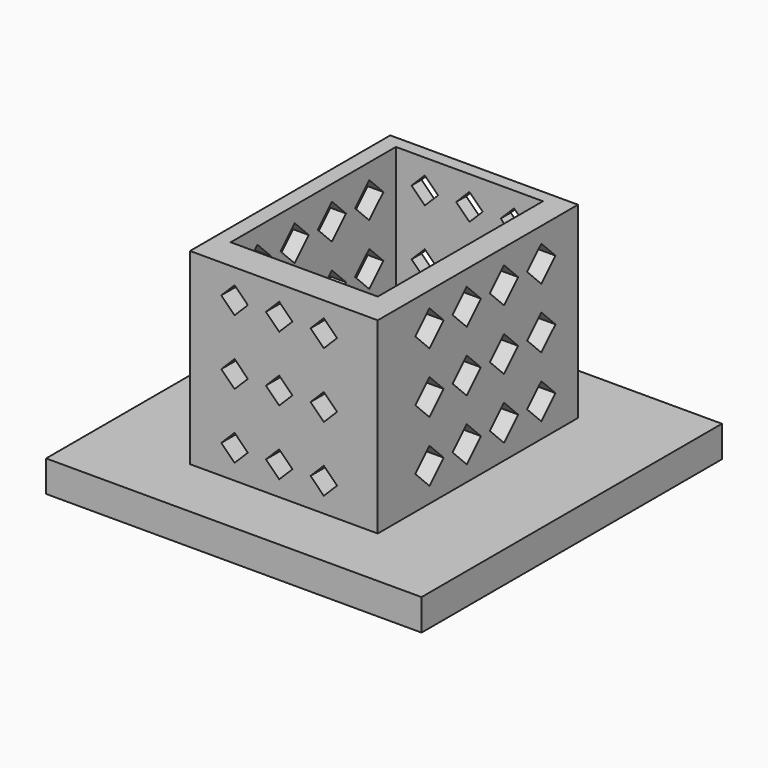
from build123d import *

# Parameters (mm, degrees)
F0_W     = 60
F0_H     = 80
F0_W_2   = 47
F0_H_2   = 66
F1_DEPTH = 60
F3_DEPTH = 60.001
F5_DEPTH = 80.001
F7_DEPTH = 10


with BuildPart() as f1:
    # F0 (on Top) → F1 (new body)
    with BuildSketch(Plane.XY):
        Rectangle(F0_W, F0_H)
        with Locations((-1.5, 3)):
            Rectangle(F0_W_2, F0_H_2, mode=Mode.SUBTRACT)
    extrude(amount=F1_DEPTH)

    # F2 (on face) → F3 (cut, through all)
    with BuildSketch(Plane.YZ.offset(30)):
        Polygon((-19.343146, 55), (-25, 49.343146), (-19.343146, 43.686292), (-13.686292, 49.343146), align=None)
        Polygon((-4.447715, 55), (-10.104569, 49.343146), (-4.447715, 43.686292), (1.209139, 49.343146), align=None)
        Polygon((10.447715, 55), (4.790861, 49.343146), (10.447715, 43.686292), (16.104569, 49.343146), align=None)
        Polygon((25.343146, 55), (19.686292, 49.343146), (25.343146, 43.686292), (31, 49.343146), align=None)
        Polygon((-10.104569, 30), (-4.447715, 24.343146), (1.209139, 30), (-4.447715, 35.656854), align=None)
        Polygon((25.343146, 24.343146), (31, 30), (25.343146, 35.656854), (19.686292, 30), align=None)
        Polygon((-19.343146, 35.656854), (-25, 30), (-19.343146, 24.343146), (-13.686292, 30), align=None)
        Polygon((10.447715, 35.656854), (4.790861, 30), (10.447715, 24.343146), (16.104569, 30), align=None)
        Polygon((-10.104569, 10.656854), (-4.447715, 5), (1.209139, 10.656854), (-4.447715, 16.313708), align=None)
        Polygon((25.343146, 5), (31, 10.656854), (25.343146, 16.313708), (19.686292, 10.656854), align=None)
        Polygon((-19.343146, 16.313708), (-25, 10.656854), (-19.343146, 5), (-13.686292, 10.656854), align=None)
        Polygon((10.447715, 16.313708), (4.790861, 10.656854), (10.447715, 5), (16.104569, 10.656854), align=None)
    extrude(amount=-F3_DEPTH, mode=Mode.SUBTRACT)

    # F4 (on face) → F5 (cut, through all)
    with BuildSketch(Plane(origin=(0, 40, 0), x_dir=(-1, 0, 0), z_dir=(0, 1, 0))):
        Polygon((-12.757359, 55), (-17, 50.757359), (-12.757359, 46.514719), (-8.514719, 50.757359), align=None)
        Polygon((-8.514719, 30), (-12.757359, 34.242641), (-17, 30), (-12.757359, 25.757359), align=None)
        Polygon((-8.514719, 9.242641), (-12.757359, 13.485281), (-17, 9.242641), (-12.757359, 5), align=None)
        Polygon((5.742641, 50.757359), (1.5, 55), (-2.742641, 50.757359), (1.5, 46.514719), align=None)
        Polygon((5.742641, 30), (1.5, 34.242641), (-2.742641, 30), (1.5, 25.757359), align=None)
        Polygon((5.742641, 9.242641), (1.5, 13.485281), (-2.742641, 9.242641), (1.5, 5), align=None)
        Polygon((20, 50.757359), (15.757359, 55), (11.514719, 50.757359), (15.757359, 46.514719), align=None)
        Polygon((20, 30), (15.757359, 34.242641), (11.514719, 30), (15.757359, 25.757359), align=None)
        Polygon((20, 9.242641), (15.757359, 13.485281), (11.514719, 9.242641), (15.757359, 5), align=None)
    extrude(amount=-F5_DEPTH, mode=Mode.SUBTRACT)

    # F6 (on Top) → F7 (join)
    with BuildSketch(Plane.XY):
        Polygon((0, 0), (60, -60), (60, 60), align=None)
        Polygon((-60, -60), (60, -60), (0, 0), align=None)
        Polygon((-60, 60), (-60, -60), (0, 0), align=None)
        Polygon((0, 0), (60, 60), (-60, 60), align=None)
    extrude(amount=-F7_DEPTH)


solid = f1.part
